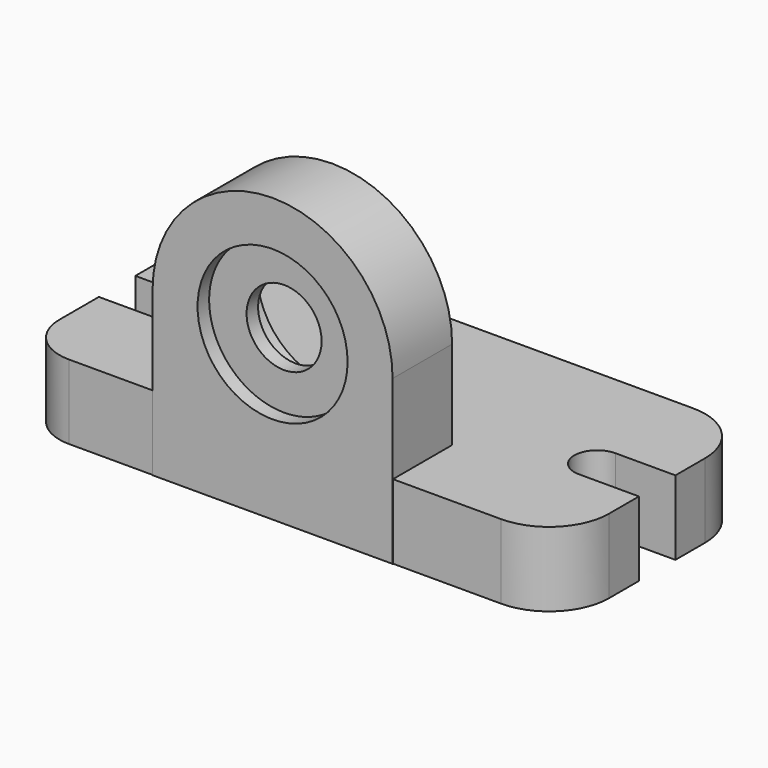
from build123d import *

# Parameters (mm, degrees)
F2_DEPTH = 15.748
F3_DEPTH = 15.748
F4_DEPTH = 3.048
F5_DEPTH = 3.048


with BuildPart() as f2:
    # F0 (on Top) → F2 (new body)
    with BuildSketch(Plane.XY):
        with BuildLine():
            ThreePointArc((-53.3017574266, 10.254479922), (-50.3259623234, 3.0702750251), (-43.1417574266, 0.094479922))
            Line((-43.1417574266, 0.094479922), (48.2982425734, 0.094479922))
            ThreePointArc((48.2982425734, 0.094479922), (57.2784986945, 3.8142238009), (60.9982425734, 12.794479922))
            Line((60.9982425734, 12.794479922), (60.9982425734, 20.668479922))
            Line((60.9982425734, 20.668479922), (48.2982425734, 20.668479922))
            ThreePointArc((48.2982425734, 20.668479922), (43.4722425734, 25.494479922), (48.2982425734, 30.320479922))
            Line((48.2982425734, 30.320479922), (60.9982425734, 30.320479922))
            Line((60.9982425734, 30.320479922), (60.9982425734, 38.194479922))
            ThreePointArc((60.9982425734, 38.194479922), (57.2784986945, 47.1747360431), (48.2982425734, 50.894479922))
            Line((48.2982425734, 50.894479922), (-40.6017574266, 50.894479922))
            ThreePointArc((-40.6017574266, 50.894479922), (-49.5820135476, 47.1747360431), (-53.3017574266, 38.194479922))
            Line((-53.3017574266, 38.194479922), (-53.3017574266, 30.320479922))
            Line((-53.3017574266, 30.320479922), (-40.6017574266, 30.320479922))
            ThreePointArc((-40.6017574266, 30.320479922), (-35.7757574266, 25.494479922), (-40.6017574266, 20.668479922))
            Line((-40.6017574266, 20.668479922), (-53.3017574266, 20.668479922))
            Line((-53.3017574266, 20.668479922), (-53.3017574266, 10.254479922))
        make_face()
    extrude(amount=F2_DEPTH)


with BuildPart() as f3:
    # F1 (on Front) → F3 (new body)
    with BuildSketch(Plane.XZ):
        with BuildLine():
            ThreePointArc((25.4, 34.544), (0, 59.944), (-25.4, 34.544))
            Line((-25.4, 34.544), (-15.875, 34.544))
            ThreePointArc((-15.875, 34.544), (0, 50.419), (15.875, 34.544))
            Line((15.875, 34.544), (25.4, 34.544))
        make_face()
        with BuildLine():
            Line((-25.4, 34.544), (-25.4, 0))
            Line((-25.4, 0), (25.4, 0))
            Line((25.4, 0), (25.4, 34.544))
            Line((25.4, 34.544), (15.875, 34.544))
            ThreePointArc((15.875, 34.544), (0, 18.669), (-15.875, 34.544))
            Line((-15.875, 34.544), (-25.4, 34.544))
        make_face()
    extrude(amount=-F3_DEPTH)


with BuildPart() as f4:
    # F1 (on Front) → F4 (new body)
    with BuildSketch(Plane.XZ):
        with BuildLine():
            Line((7.9375, 34.544), (-7.9375, 34.544))
            ThreePointArc((-7.9375, 34.544), (0, 26.6065), (7.9375, 34.544))
        make_face()
        with BuildLine():
            ThreePointArc((7.9375, 34.544), (0, 42.4815), (-7.9375, 34.544))
            Line((-7.9375, 34.544), (7.9375, 34.544))
        make_face()
    extrude(amount=-F4_DEPTH)


with BuildPart() as f5:
    # F1 (on Front) → F5 (new body)
    with BuildSketch(Plane.XZ):
        with BuildLine():
            ThreePointArc((15.875, 34.544), (0, 50.419), (-15.875, 34.544))
            Line((-15.875, 34.544), (-7.9375, 34.544))
            ThreePointArc((-7.9375, 34.544), (0, 42.4815), (7.9375, 34.544))
            Line((7.9375, 34.544), (15.875, 34.544))
        make_face()
        with BuildLine():
            Line((-7.9375, 34.544), (-15.875, 34.544))
            ThreePointArc((-15.875, 34.544), (0, 18.669), (15.875, 34.544))
            Line((15.875, 34.544), (7.9375, 34.544))
            ThreePointArc((7.9375, 34.544), (0, 26.6065), (-7.9375, 34.544))
        make_face()
    extrude(amount=-F5_DEPTH)

    # F6: cut F4
    add(f4.part, mode=Mode.SUBTRACT)


with BuildPart() as f5_1:
    # F7: moved
    add(f5.part.moved(Location((0, 3.048, 0))))


solid = Compound([f2.part, f3.part, f5_1.part])
